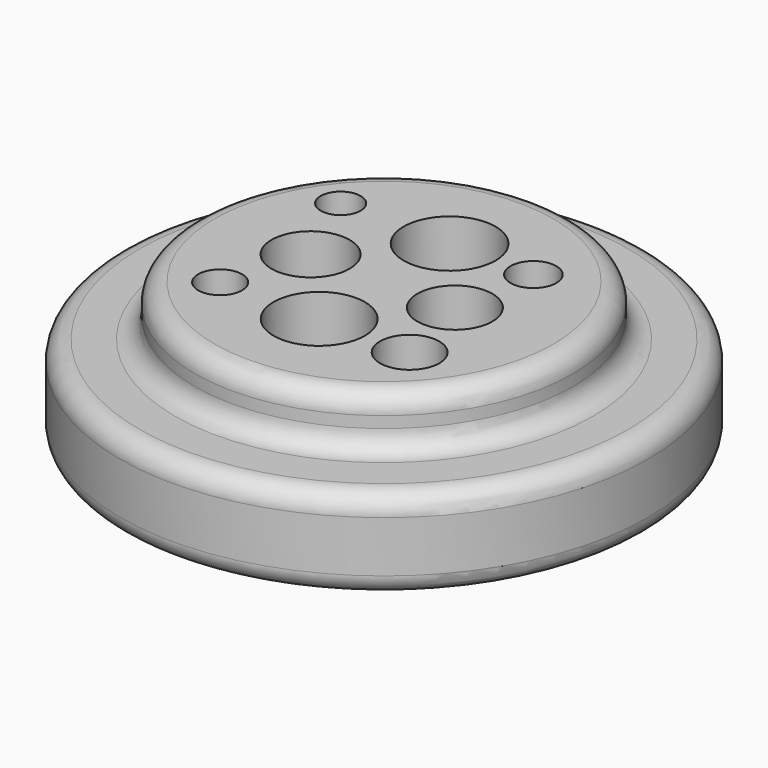
from build123d import *

# Parameters (mm, degrees)
F0_R     = 73.968318151
F2_DEPTH = 25.4
F1_R     = 52.9945680325
F3_DEPTH = 39.624
F5_R     = 5.5188922036
F6_R     = 12.8827349719
F6_R_2   = 12.7839169131
F6_R_3   = 10.9478367458
F6_R_4   = 6.1315337815
F6_R_5   = 5.5897287033
F6_R_6   = 6.4139336727
F6_R_7   = 8.3020391009
F7_DEPTH = 70.866
F8_R     = 10.5053608139
F9_DEPTH = 50.546


with BuildPart() as f2:
    # F0 (on Top) → F2 (new body)
    with BuildSketch(Plane.XY):
        Circle(F0_R)
    extrude(amount=F2_DEPTH)

    # F1 (on face) → F3 (join)
    with BuildSketch(Plane.XY):
        Circle(F1_R)
    extrude(amount=F3_DEPTH)

    # F5
    f5_edges = [f2.edges().sort_by_distance(p)[0] for p in [
        (-52.994568, 0, 25.4),
        (52.994568, 0, 32.512),
        (-52.994568, 0, 39.624),
        (73.968318, 0, 12.7),
        (-73.968318, 0, 0),
        (-73.968318, 0, 25.4),
    ]]
    fillet(f5_edges, radius=F5_R)

    # F6 (on face) → F7 (cut)
    with BuildSketch(Plane.XY.offset(39.624)):
        with Locations((0, 22.9584183544)):
            Circle(F6_R)
        with Locations((0, -22.6955935359)):
            Circle(F6_R_2)
        with Locations((-20.5665808171, 0)):
            Circle(F6_R_3)
        with Locations((-27.7332775295, -22.6955935359)):
            Circle(F6_R_4)
        with Locations((-30.5117629468, 22.9584183544)):
            Circle(F6_R_5)
        with Locations((23.4740655869, 22.9584183544)):
            Circle(F6_R_6)
        with Locations((25.338197127, -22.6955935359)):
            Circle(F6_R_7)
    extrude(amount=-F7_DEPTH, mode=Mode.SUBTRACT)

    # F8 (on face) → F9 (cut)
    with BuildSketch(Plane.XY.offset(39.624)):
        with Locations((19.8444724083, 0)):
            Circle(F8_R)
    extrude(amount=-F9_DEPTH, mode=Mode.SUBTRACT)


solid = f2.part
